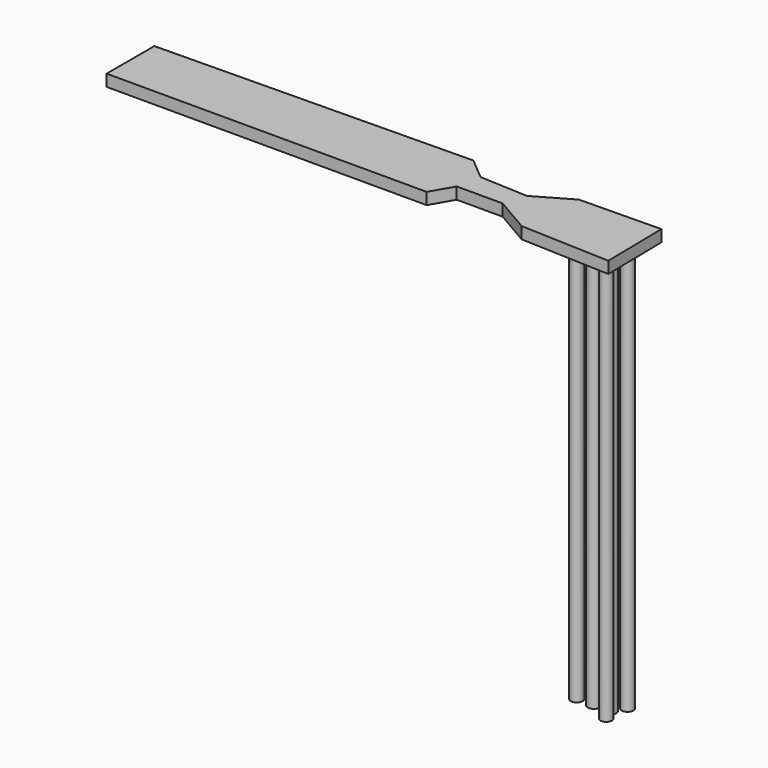
from build123d import *

# Parameters (mm, degrees)
F1_DEPTH = 3.820417
F2_R     = 1.90733
F2_R_2   = 1.882505
F2_R_3   = 1.907323
F2_R_4   = 1.915535
F2_R_5   = 1.861563
F2_R_6   = 1.960041
F2_R_7   = 2.019149
F2_R_8   = 1.956034
F3_DEPTH = 134.979174


with BuildPart() as f1:
    # F0 (on Top) → F1 (new body)
    with BuildSketch(Plane.XY):
        Polygon((8.782074, 32.225236), (-94.263762, 30.731819), (-94.263762, 11.241347), (10.280922, 11.241347), (14.402747, 18.360883), (29.391229, 18.360883), (41.00731, 11.616066), (70.23485, 10.491922), (69.860145, 32.599941), (43.244176, 32.148832), (31.639501, 25.480404), (15.901595, 26.229829), align=None)
    extrude(amount=F1_DEPTH)

    # F2 (on Top) → F3 (join)
    with BuildSketch(Plane.XY):
        with Locations((45.582108, 28.766241)):
            Circle(F2_R)
        with Locations((51.718004, 28.766241)):
            Circle(F2_R_2)
        with Locations((56.726903, 28.766241)):
            Circle(F2_R_3)
        with Locations((61.986238, 28.641015)):
            Circle(F2_R_4)
        with Locations((61.234906, 20.877231)):
            Circle(F2_R_5)
        with Locations((59.481792, 24.759125)):
            Circle(F2_R_6)
        with Locations((54.22245, 24.633903)):
            Circle(F2_R_7)
        with Locations((48.587449, 24.633903)):
            Circle(F2_R_8)
    extrude(amount=-F3_DEPTH)


solid = f1.part
